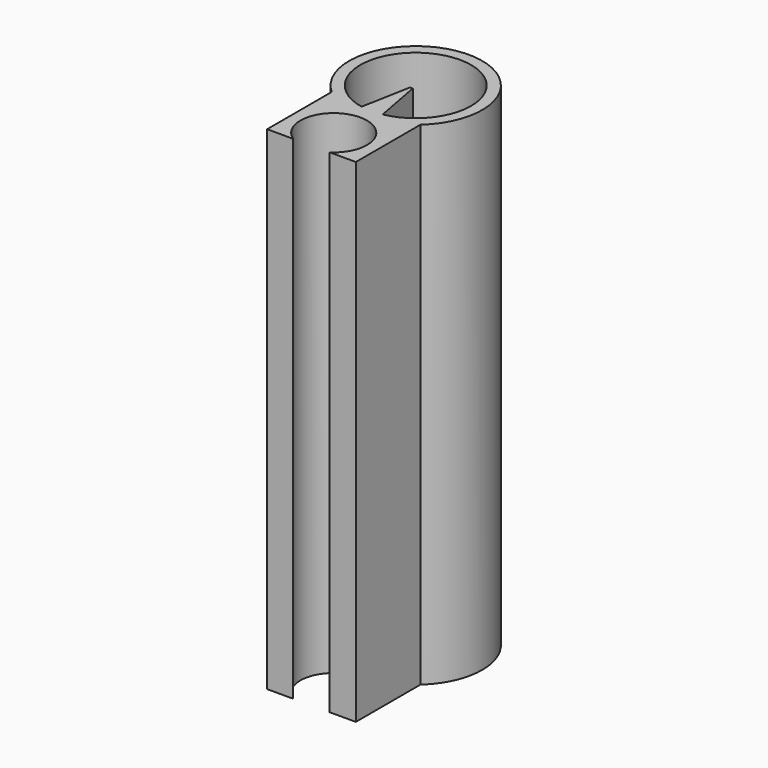
from build123d import *

# Parameters (mm, degrees)
F0_R     = 10
F1_DEPTH = 88.9
F3_DEPTH = 88.9


with BuildPart() as f1:
    # F0 (on Top) → F1 (new body)
    with BuildSketch(Plane.XY):
        with BuildLine():
            Line((8, -23.5), (8, -8.944272))
            ThreePointArc((8, -8.944272), (0, 12), (-8, -8.944272))
            Line((-8, -8.944272), (-8, -23.5))
            Line((-8, -23.5), (-3.291974, -23.5))
            ThreePointArc((-3.291974, -23.5), (0, -12.483736), (3.291974, -23.5))
            Line((3.291974, -23.5), (8, -23.5))
        make_face()
        Circle(F0_R, mode=Mode.SUBTRACT)
    extrude(amount=F1_DEPTH)

    # F2 (on Top) → F3 (join, through all)
    with BuildSketch(Plane.XY):
        with BuildLine():
            ThreePointArc((0.24253, -0.970144), (0, -1), (-0.24253, -0.970144))
            Line((-0.24253, -0.970144), (-2, -10.35636))
            Line((-2, -10.35636), (0, -10.35636))
            Line((0, -10.35636), (2, -10.35636))
            Line((2, -10.35636), (0.24253, -0.970144))
        make_face()
    extrude(amount=F3_DEPTH)


solid = f1.part
